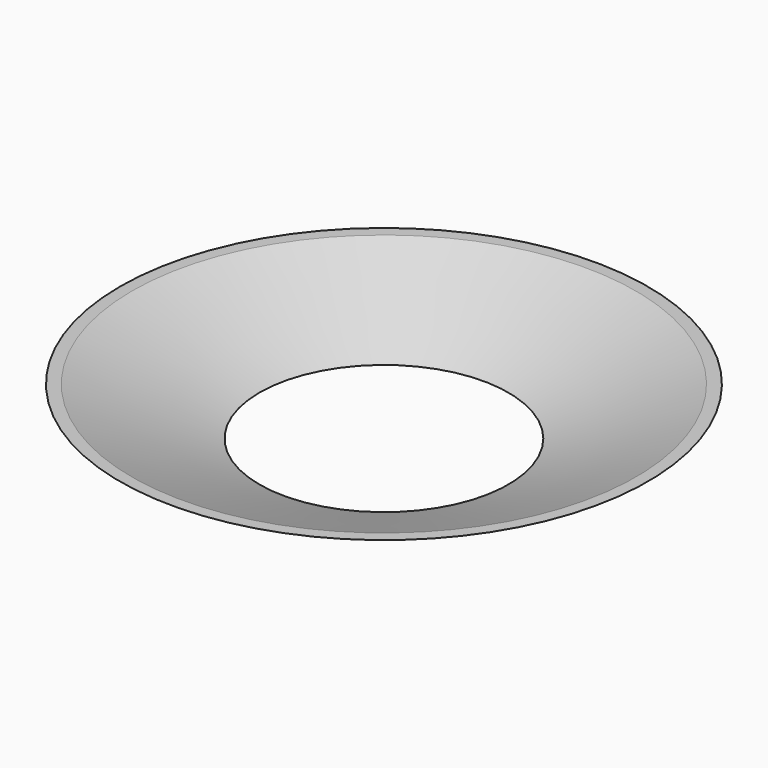
from build123d import *


with BuildPart() as f1:
    # F0 (on Front) → F1 (revolve)
    with BuildSketch(Plane.XZ):
        Polygon((-10.375, 0), (-21.000018, 3.999984), (-22.000018, 3.999984), (-12.375, 0), align=None)
    revolve(axis=Axis((-1.8e-05, 0, 1.999984), (0, 0, 1)))


solid = f1.part
